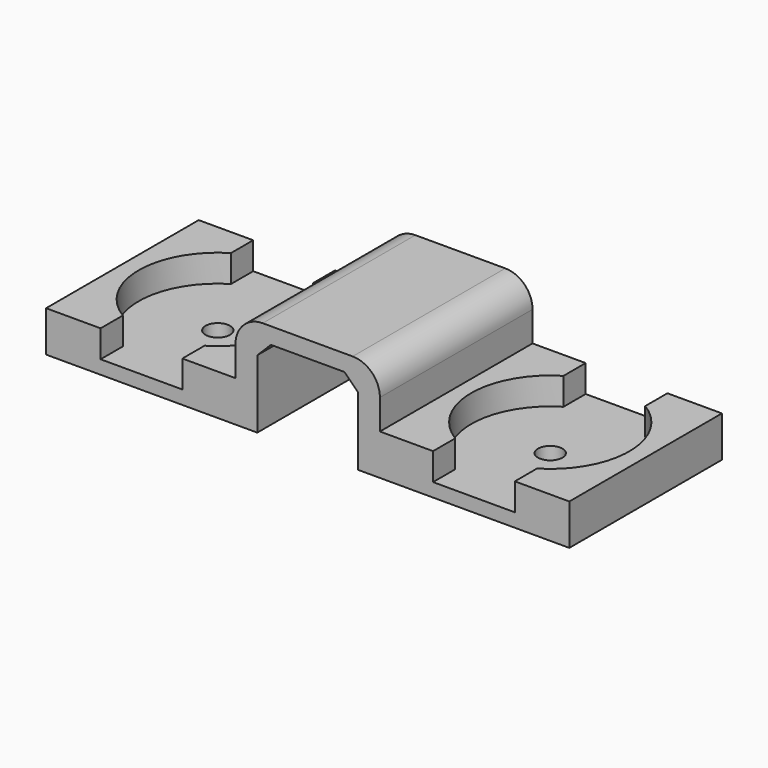
from build123d import *

# Parameters (mm, degrees)
PAD_DEPTH       = 7
SKETCH006_W     = 14
SKETCH006_H     = 14
PAD002_DEPTH    = 3
POCKET004_DEPTH = 2
SKETCH008_R     = 0.9
POCKET005_DEPTH = 1.001
FILLET001_R     = 2
CHAMFER_SIZE    = 1


with BuildPart() as clamp_unit001:
    # Sketch → Pad (new body, symmetric)
    with BuildSketch(Plane.XZ):
        Polygon((-3.7, 7.2), (5.3, 7.2), (5.3, 0), (3.7, 0), (3.7, 6), (-3.7, 6), (-3.7, 0), (-5.3, 0), (-5.3, 7.2), align=None)
    extrude(amount=PAD_DEPTH, both=True)


with BuildPart() as obj1:
    # Sketch006 → Pad002 (new body)
    with BuildSketch(Plane.XY):
        Rectangle(SKETCH006_W, SKETCH006_H)
    extrude(amount=PAD002_DEPTH)

    # Sketch007 (on Face6 of Pad002) → Pocket004 (cut)
    with BuildSketch(Plane.XY.offset(3)):
        with BuildLine():
            Line((-3, 7), (-3, 4.963869))
            ThreePointArc((-3, 4.963869), (-5.8, 0), (-3, -4.963869))
            Line((-3, -7), (-3, -4.963869))
            Line((3, -7), (-3, -7))
            Line((3, -4.963869), (3, -7))
            ThreePointArc((3, -4.963869), (5.8, 0), (3, 4.963869))
            Line((3, 7), (3, 4.963869))
            Line((-3, 7), (3, 7))
        make_face()
    extrude(amount=-POCKET004_DEPTH, mode=Mode.SUBTRACT)

    # Sketch008 (on Face6 of Pocket004) → Pocket005 (cut, through all)
    with BuildSketch(Plane.XY.offset(1)):
        Circle(SKETCH008_R)
    extrude(amount=-POCKET005_DEPTH, mode=Mode.SUBTRACT)


with BuildPart() as obj1_1:
    # Clone placement: moved
    add(obj1.part.moved(Location((-11.2, 0, 0))))


with BuildPart() as obj1_2:
    # Clone002 placement: moved
    add(obj1_1.part.moved(Location((-1, 0, 0))))


with BuildPart() as obj2:
    # Clone004 base: copy of obj1
    add(obj1_2.part)


with BuildPart() as obj2_1:
    # Clone004 placement: moved
    add(obj2.part.moved(Location((24.4, 0, 0))))


with BuildPart() as obj3:
    # Fusion001 base: copy of obj1
    add(obj1_2.part)

    # Fusion001: union clamp-unit001, obj2
    add(clamp_unit001.part)
    add(obj2_1.part)

    # Fillet001
    fillet001_edges = [obj3.edges().sort_by_distance(p)[0] for p in [
        (5.3, 0, 7.2),
        (-5.3, 0, 7.2),
    ]]
    fillet(fillet001_edges, radius=FILLET001_R)

    # Chamfer
    chamfer_edges = [obj3.edges().sort_by_distance(p)[0] for p in [
        (-3.7, 0, 6),
        (3.7, 0, 6),
    ]]
    chamfer(chamfer_edges, length=CHAMFER_SIZE)


solid = obj3.part
